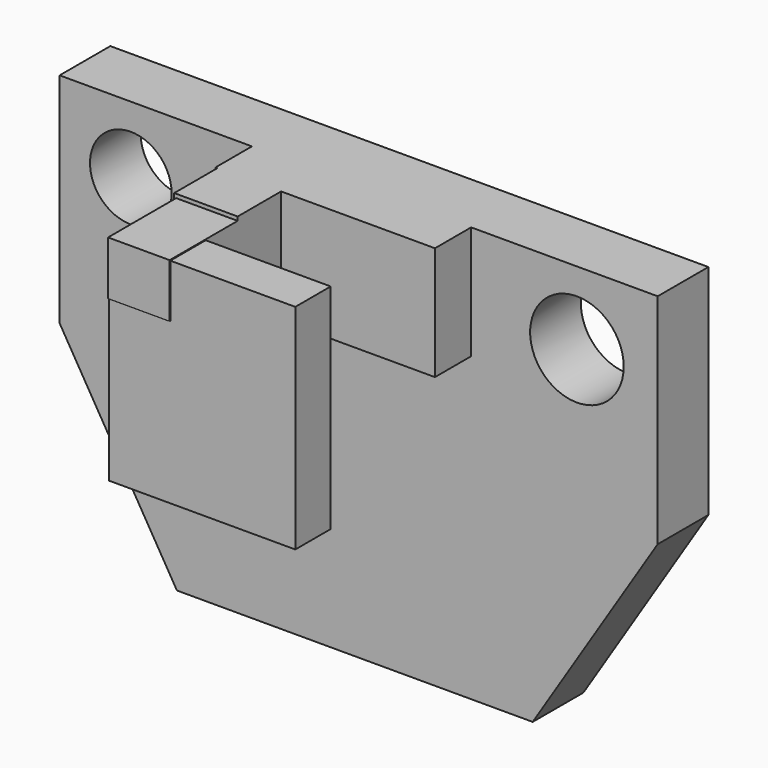
from build123d import *

# Parameters (mm, degrees)
F0_W      = 83.9228034019
F0_H      = 30.6277740747
F1_DEPTH  = 8.89
F2_W      = 30.7626985013
F2_H      = 15.9210450947
F3_DEPTH  = 15.24
F4_W      = 8.9049930684
F4_H      = 15.3813483194
F5_DEPTH  = 22.86
F6_W      = 8.6351442151
F6_H      = 7.55575113
F7_DEPTH  = 34.798
F8_W      = 26.175278239
F8_H      = 6.2065087259
F9_DEPTH  = 29.972
F10_R     = 5.7243436082
F10_R_2   = 6.565694646
F11_DEPTH = 25.4


with BuildPart() as f1:
    # F0 (on Front) → F1 (new body)
    with BuildSketch(Plane.XZ):
        with Locations((-0.9444691241, 15.3138870373)):
            Rectangle(F0_W, F0_H)
        Polygon((41.0169325769, 0), (-42.9058708251, 0), (-26.445126161, -27.6594422758), (23.4767943621, -27.6594422758), align=None)
    extrude(amount=F1_DEPTH)

    # F2 (on Front) → F3 (join)
    with BuildSketch(Plane.XZ):
        with Locations((-0.5396958441, 22.6672515273)):
            Rectangle(F2_W, F2_H)
    extrude(amount=F3_DEPTH)

    # F4 (on Front) → F5 (join)
    with BuildSketch(Plane.XZ):
        with Locations((-11.1987015698, 22.937099915)):
            Rectangle(F4_W, F4_H)
    extrude(amount=F5_DEPTH)

    # F6 (on Front) → F7 (join)
    with BuildSketch(Plane.XZ):
        with Locations((-11.0637771431, 26.3102026656)):
            Rectangle(F6_W, F6_H)
    extrude(amount=F7_DEPTH)

    # F8 (on Top) → F9 (join)
    with BuildSketch(Plane.XY):
        with Locations((-2.2937101312, -31.5722431988)):
            Rectangle(F8_W, F8_H)
    extrude(amount=F9_DEPTH)

    # F10 (on Front) → F11 (cut)
    with BuildSketch(Plane.XZ):
        with Locations((-32.9214856029, 21.1830865592)):
            Circle(F10_R)
        with Locations((29.6833030879, 20.3735418618)):
            Circle(F10_R_2)
    extrude(amount=F11_DEPTH, mode=Mode.SUBTRACT)


solid = f1.part
